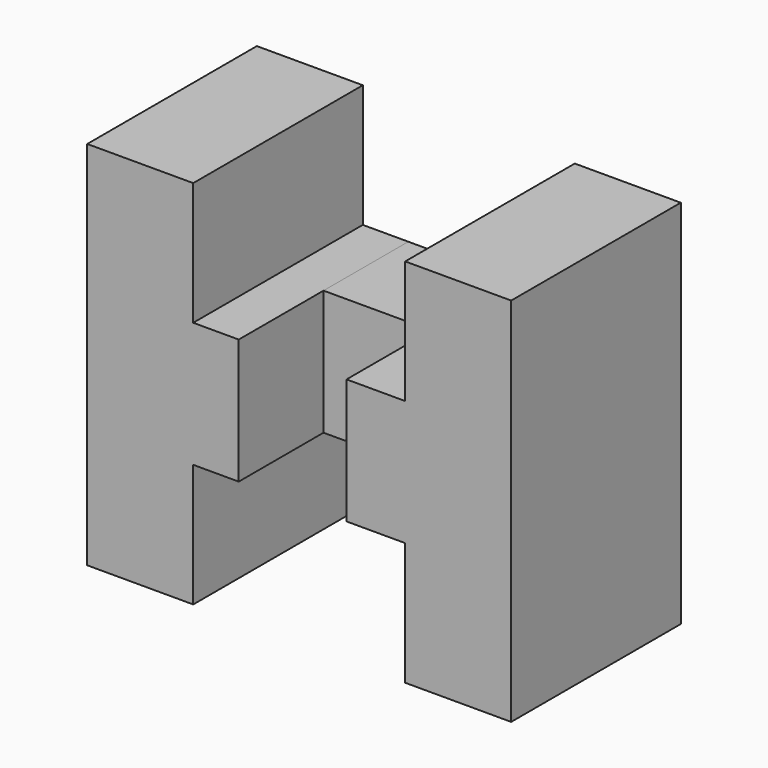
from build123d import *

# Parameters (mm, degrees)
F1_DEPTH = 50.8
F2_DEPTH = 25.4


with BuildPart() as f1:
    # F0 (on Front) → F1 (new body)
    with BuildSketch(Plane.XZ):
        Polygon((-12.954, -9.447968), (-12.954, 20.524032), (-23.859346, 20.524032), (-23.859346, 49.988032), (-49.259346, 49.988032), (-49.259346, -38.911968), (-23.859346, -38.911968), (-23.859346, -9.447968), align=None)
        Polygon((52.340654, -38.911968), (52.340654, 49.988032), (26.940654, 49.988032), (26.940654, 20.524032), (12.883512, 20.524032), (12.883512, 0), (12.883512, -9.447968), (26.940654, -9.447968), (26.940654, -38.911968), align=None)
    extrude(amount=F1_DEPTH)


with BuildPart() as f2:
    # F0 (on Front) → F2 (new body)
    with BuildSketch(Plane.XZ):
        Polygon((12.883512, 0), (12.883512, 20.524032), (-12.954, 20.524032), (-12.954, -9.447968), (12.883512, -9.447968), align=None)
    extrude(amount=F2_DEPTH)


solid = Compound([f1.part, f2.part])
